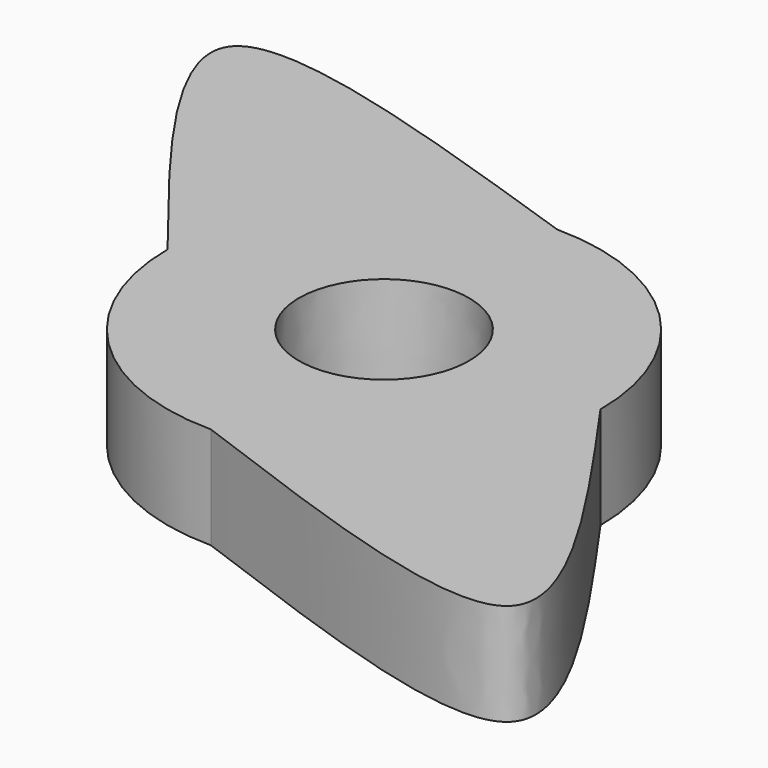
from build123d import *

# Parameters (mm, degrees)
F1_DEPTH = 7.62


with BuildPart() as f1:
    # F0 (on Top) → F1 (new body)
    with BuildSketch(Plane.XY):
        with BuildLine():
            ThreePointArc((0, -16.1618834375), (11.4281773754, -11.4281773754), (16.1618834375, 0))
            ThreePointArc((16.1618834375, 0), (11.4281773754, 11.4281773754), (0, 16.1618834375))
            ThreePointArc((0, 16.1618834375), (-11.4281773754, 11.4281773754), (-16.1618834375, 0))
            ThreePointArc((-16.1618834375, 0), (-11.4281773754, -11.4281773754), (0, -16.1618834375))
        make_face()
        with BuildLine():
            add(Edge.make_bspline(
                [(-3.3144769964, -5.4163402996), (6.0668995936, -11.1571828578), (6.3479267931, -0.1622511293), (6.6289539927, 10.8326805991), (-3.0334497968, 5.5785914289), (-12.6958535863, 0.3245022587), (-3.3144769964, -5.4163402996)],
                knots=[0, 0, 0, 2.0943951024, 2.0943951024, 4.1887902048, 4.1887902048, 6.2831853072, 6.2831853072, 6.2831853072], degree=2, weights=[1, 0.5, 1, 0.5, 1, 0.5, 1]))
        make_face(mode=Mode.SUBTRACT)
        with BuildLine():
            add(Edge.make_bspline(
                [(0, -16.1618834375), (12.6628212145, -20.8602689442), (37.2685869177, -29.9899384705), (23.0588761543, -9.7997485682), (16.1618834375, 0)],
                knots=[0, 0, 0, 0, 0.5146282122, 1, 1, 1, 1], degree=3))
            ThreePointArc((16.1618834375, 0), (11.4281773754, -11.4281773754), (0, -16.1618834375))
        make_face()
        with BuildLine():
            ThreePointArc((-16.1618834375, 0), (-11.4281773754, 11.4281773754), (0, 16.1618834375))
            add(Edge.make_bspline(
                [(-16.1618834375, 0), (-23.80915812, 9.6523844252), (-39.6902992808, 29.6975490047), (-13.5519187742, 20.7835225696), (0, 16.1618834375)],
                knots=[0, 0, 0, 0, 0.4815318122, 1, 1, 1, 1], degree=3))
        make_face()
    extrude(amount=F1_DEPTH)


solid = f1.part
